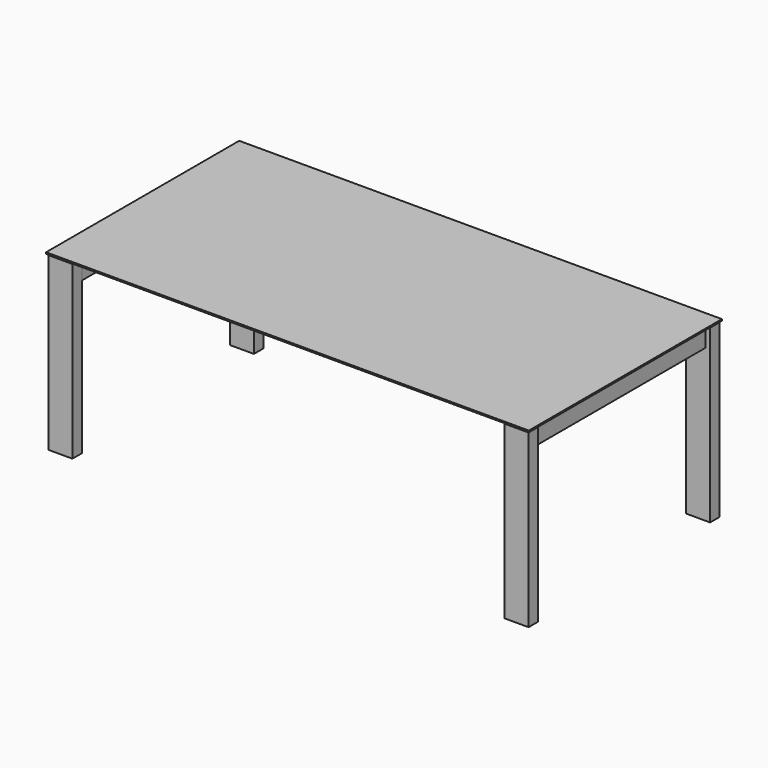
from build123d import *

# Parameters (mm, degrees)
F0_W     = 100
F0_H     = 50
F1_DEPTH = 710
F2_W     = 80
F2_H     = 80
F3_DEPTH = 890
F5_DEPTH = 25
F7_DEPTH = 30
F8_W     = 2000
F8_H     = 1000
F9_DEPTH = 6


with BuildPart() as f1:
    # F0 (on Top) → F1 (new body)
    with BuildSketch(Plane.XY):
        with Locations((-945, 470)):
            Rectangle(F0_W, F0_H)
        with Locations((945, 470)):
            Rectangle(F0_W, F0_H)
        with Locations((945, -470)):
            Rectangle(F0_W, F0_H)
        with Locations((-945, -470)):
            Rectangle(F0_W, F0_H)
    extrude(amount=F1_DEPTH)


with BuildPart() as f3:
    # F2 (on face) → F3 (new body, through all)
    with BuildSketch(Plane.XZ.offset(-445)):
        with Locations((-935, 670)):
            Rectangle(F2_W, F2_H)
        with Locations((935, 670)):
            Rectangle(F2_W, F2_H)
    extrude(amount=F3_DEPTH)

    # F4 (on face) → F5 (cut)
    with BuildSketch(Plane.XY.offset(710)):
        Polygon((-935, 380), (-935, 0), (-935, -380), (-895, -380), (-895, 0), (-895, 380), align=None)
        Polygon((935, 0), (935, 380), (895, 380), (895, 0), (895, -380), (935, -380), align=None)
    extrude(amount=-F5_DEPTH, mode=Mode.SUBTRACT)


with BuildPart() as f7:
    # F6 (on face) → F7 (new body)
    with BuildSketch(Plane.XY.offset(685)):
        Polygon((-935, 340), (-935, 0), (-935, -340), (-835, -340), (-835, -450), (0, -450), (835, -450), (835, -340), (935, -340), (935, 0), (935, 340), (835, 340), (835, 450), (0, 450), (-835, 450), (-835, 340), align=None)
    extrude(amount=F7_DEPTH)


with BuildPart() as f9:
    # F8 (on face) → F9 (new body)
    with BuildSketch(Plane.XY.offset(715)):
        Rectangle(F8_W, F8_H)
    extrude(amount=F9_DEPTH)


solid = Compound([f1.part, f3.part, f7.part, f9.part])
